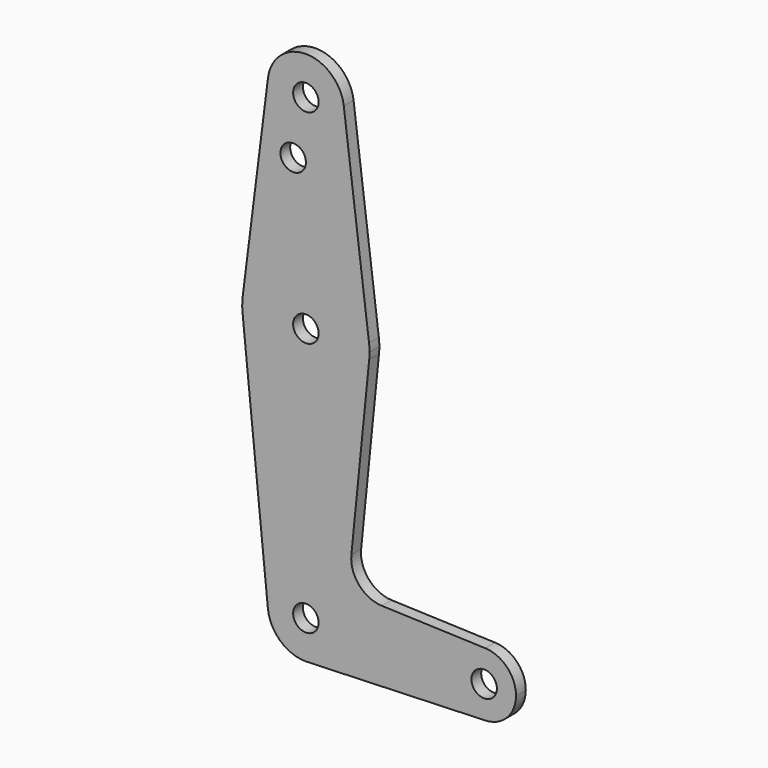
from build123d import *

# Parameters (mm, degrees)
F0_R     = 3.175
F1_DEPTH = 3.048


with BuildPart() as f1:
    # F0 (on Front) → F1 (new body)
    with BuildSketch(Plane.XZ):
        with BuildLine():
            ThreePointArc((9.450293, 115.490625), (9.506305, 114.896483), (9.525, 114.3))
            ThreePointArc((9.525, 114.3), (-0.596483, 104.793695), (-9.450293, 115.490625))
            Line((-9.450293, 115.490625), (-15.750488, 65.484375))
            ThreePointArc((-15.750488, 65.484375), (0, 79.375), (15.750488, 65.484375))
            Line((15.750488, 65.484375), (9.450293, 115.490625))
        make_face()
        with Locations((-3.175, 100.0252)):
            Circle(F0_R, mode=Mode.SUBTRACT)
        with BuildLine():
            ThreePointArc((15.875, 63.5), (15.843841, 64.494139), (15.750488, 65.484375))
            ThreePointArc((15.750488, 65.484375), (0, 79.375), (-15.750488, 65.484375))
            ThreePointArc((-15.750488, 65.484375), (-15.873744, 63.699705), (-15.795426, 61.9125))
            ThreePointArc((-15.795426, 61.9125), (0, 47.625), (15.795426, 61.9125))
            ThreePointArc((15.795426, 61.9125), (15.855094, 62.705253), (15.875, 63.5))
        make_face()
        with Locations((0, 63.5)):
            Circle(F0_R, mode=Mode.SUBTRACT)
        with BuildLine():
            ThreePointArc((15.795426, 61.9125), (0, 47.625), (-15.795426, 61.9125))
            Line((-15.795426, 61.9125), (-9.477255, -0.9525))
            ThreePointArc((-9.477255, -0.9525), (-0.476848, 9.513056), (9.525, 0))
            ThreePointArc((9.525, 0), (6.970557, -6.491299), (0.677344, -9.500886))
            Line((0.677344, -9.500886), (44.732405, -7.932475))
            ThreePointArc((44.732405, -7.932475), (36.5125, 0.000539), (44.733482, 7.932436))
            Line((44.733482, 7.932436), (18.9676, 8.853234))
            ThreePointArc((18.9676, 8.853234), (13.2612, 11.571359), (11.341187, 17.593382))
            Line((11.341187, 17.593382), (15.795426, 61.9125))
        make_face()
        with BuildLine():
            ThreePointArc((9.525, 0), (-0.476848, 9.513056), (-9.477255, -0.9525))
            ThreePointArc((-9.477255, -0.9525), (-6.389564, -7.063929), (0, -9.525))
            Line((0, -9.525), (0.677344, -9.500886))
            ThreePointArc((0.677344, -9.500886), (6.970557, -6.491299), (9.525, 0))
        make_face()
        Circle(F0_R, mode=Mode.SUBTRACT)
        with BuildLine():
            ThreePointArc((-9.450293, 115.490625), (-0.596483, 104.793695), (9.525, 114.3))
            ThreePointArc((9.525, 114.3), (9.506305, 114.896483), (9.450293, 115.490625))
            ThreePointArc((9.450293, 115.490625), (0, 123.825), (-9.450293, 115.490625))
        make_face()
        with Locations((0, 114.3)):
            Circle(F0_R, mode=Mode.SUBTRACT)
        with BuildLine():
            ThreePointArc((52.3875, 0), (50.162007, 5.511523), (44.733482, 7.932436))
            ThreePointArc((44.733482, 7.932436), (36.5125, 0.000539), (44.732405, -7.932475))
            ThreePointArc((44.732405, -7.932475), (50.161633, -5.51191), (52.3875, 0))
        make_face()
        with Locations((44.45, 0)):
            Circle(F0_R, mode=Mode.SUBTRACT)
    extrude(amount=F1_DEPTH)


solid = f1.part
